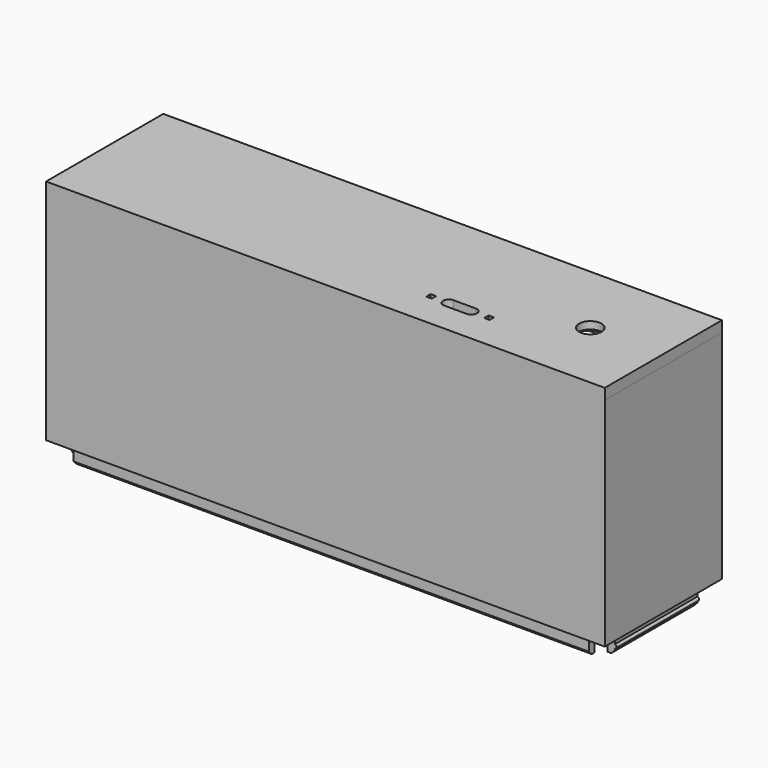
from build123d import *

# Parameters (mm, degrees)
SKETCH021_W     = 150.5
SKETCH021_H     = 36.5
SKETCH021_W_2   = 146.5
SKETCH021_H_2   = 32.5
PAD010_DEPTH    = 5
SKETCH022_W     = 154.5
SKETCH022_H     = 40.5
SKETCH022_W_2   = 146.5
SKETCH022_H_2   = 32.5
PAD011_DEPTH    = 60
SKETCH026_R     = 0.5
PAD013_DEPTH    = 36.5
SKETCH027_W     = 6
SKETCH027_H     = 6
POCKET008_DEPTH = 15
CHAMFER002_SIZE = 1
SKETCH028_W     = 154.5
SKETCH028_H     = 40.5
PAD014_DEPTH    = 3
SKETCH029_R     = 3.1
POCKET009_DEPTH = 5
POCKET010_DEPTH = 1
SKETCH031_W     = 1.5
SKETCH031_H     = 1.5
POCKET011_DEPTH = 5
SKETCH032_R     = 20.5
SKETCH032_R_2   = 1.45
SKETCH032_R_3   = 1.5
POCKET012_DEPTH = 5


with BuildPart() as part:
    # Sketch021 (on DatumPlane) → Pad010 (new body)
    with BuildSketch(Plane.XY.offset(21.399978)):
        with Locations((1.87496, 2.00006)):
            Rectangle(SKETCH021_W, SKETCH021_H)
        with Locations((1.87496, 2.00006)):
            Rectangle(SKETCH021_W_2, SKETCH021_H_2, mode=Mode.SUBTRACT)
    extrude(amount=-PAD010_DEPTH)

    # Sketch022 (on DatumPlane) → Pad011 (join)
    with BuildSketch(Plane.XY.offset(21.399978)):
        with Locations((1.87496, 2.00006)):
            Rectangle(SKETCH022_W, SKETCH022_H)
        with Locations((1.87496, 2.00006)):
            Rectangle(SKETCH022_W_2, SKETCH022_H_2, mode=Mode.SUBTRACT)
    extrude(amount=PAD011_DEPTH)

    # Sketch026 (on Face2 of Pad011) → Pad013 (join)
    with BuildSketch(Plane(origin=(0, 20.25006, 21.399978), x_dir=(-1, 0, 0), z_dir=(0, 1, 0))):
        with Locations((73.375041, -3)):
            Circle(SKETCH026_R)
        with Locations((-77.124959, -3)):
            Circle(SKETCH026_R)
    extrude(amount=-PAD013_DEPTH)

    # Sketch027 (on Face6 of Pad013) → Pocket008 (cut)
    with BuildSketch(Plane(origin=(0, 0, 21.399978), x_dir=(1, 0, 0), z_dir=(0, 0, -1))):
        with Locations((-72.375041, 15.24994)):
            Rectangle(SKETCH027_W, SKETCH027_H)
        with Locations((-72.375041, -19.25006)):
            Rectangle(SKETCH027_W, SKETCH027_H)
        with Locations((76.124959, 15.24994)):
            Rectangle(SKETCH027_W, SKETCH027_H)
        with Locations((76.124959, -19.25006)):
            Rectangle(SKETCH027_W, SKETCH027_H)
    extrude(amount=POCKET008_DEPTH, mode=Mode.SUBTRACT)

    # Chamfer002
    chamfer002_edges = [part.edges().sort_by_distance(p)[0] for p in [
        (1.87496, 20.25006, 16.399978),
        (-73.37504, 2.00006, 16.399978),
        (1.87496, -16.24994, 16.399978),
        (77.12496, 2.00006, 16.399978),
    ]]
    chamfer(chamfer002_edges, length=CHAMFER002_SIZE)

    # Sketch028 (on Face11 of Chamfer002) → Pad014 (join)
    with BuildSketch(Plane.XY.offset(81.399978)):
        with Locations((1.874959, 2.00006)):
            Rectangle(SKETCH028_W, SKETCH028_H)
    extrude(amount=PAD014_DEPTH)

    # Sketch029 (on Face32 of Pad014) → Pocket009 (cut)
    with BuildSketch(Plane.XY.offset(84.399978)):
        with Locations((59.124959, 1.75006)):
            Circle(SKETCH029_R)
    extrude(amount=-POCKET009_DEPTH, mode=Mode.SUBTRACT)

    # Sketch030 (on Face11 of Pocket009) → Pocket010 (cut)
    with BuildSketch(Plane(origin=(0, 0, 81.399978), x_dir=(1, 0, 0), z_dir=(0, 0, -1))):
        Polygon((59.12496, 2.926477), (55.07496, 0.588209), (55.07496, -4.088329), (59.12496, -6.426597), (63.17496, -4.088329), (63.17496, 0.588209), align=None)
    extrude(amount=-POCKET010_DEPTH, mode=Mode.SUBTRACT)

    # Sketch031 (on Face35 of Pocket010) → Pocket011 (cut)
    with BuildSketch(Plane.XY.offset(84.399978)):
        with BuildLine():
            ThreePointArc((28.024959, -6.64994), (26.424959, -8.24994), (28.024959, -9.84994))
            Line((28.024959, -9.84994), (34.224959, -9.84994))
            ThreePointArc((34.224959, -9.84994), (35.824959, -8.24994), (34.224959, -6.64994))
            Line((28.024959, -6.64994), (34.224959, -6.64994))
        make_face()
        with Locations((23.124959, -8.24994)):
            Rectangle(SKETCH031_W, SKETCH031_H)
        with Locations((39.124959, -8.24994)):
            Rectangle(SKETCH031_W, SKETCH031_H)
    extrude(amount=-POCKET011_DEPTH, mode=Mode.SUBTRACT)

    # Sketch032 (on Face13 of Pocket011) → Pocket012 (cut)
    with BuildSketch(Plane(origin=(0, 22.25006, 21.399978), x_dir=(-1, 0, 0), z_dir=(0, 1, 0))):
        with Locations((36.75004, 31.5)):
            Circle(SKETCH032_R)
        with Locations((18.25004, 50)):
            Circle(SKETCH032_R_2)
        with Locations((55.25004, 50)):
            Circle(SKETCH032_R_2)
        with Locations((55.25004, 13)):
            Circle(SKETCH032_R_2)
        with Locations((18.25004, 13)):
            Circle(SKETCH032_R_2)
        with Locations((-40.49996, 31.5)):
            Circle(SKETCH032_R)
        with Locations((-58.99996, 50)):
            Circle(SKETCH032_R_3)
        with Locations((-21.99996, 50)):
            Circle(SKETCH032_R_3)
        with Locations((-21.99996, 13)):
            Circle(SKETCH032_R_3)
        with Locations((-58.99996, 13)):
            Circle(SKETCH032_R_3)
    extrude(amount=-POCKET012_DEPTH, mode=Mode.SUBTRACT)


solid = part.part
